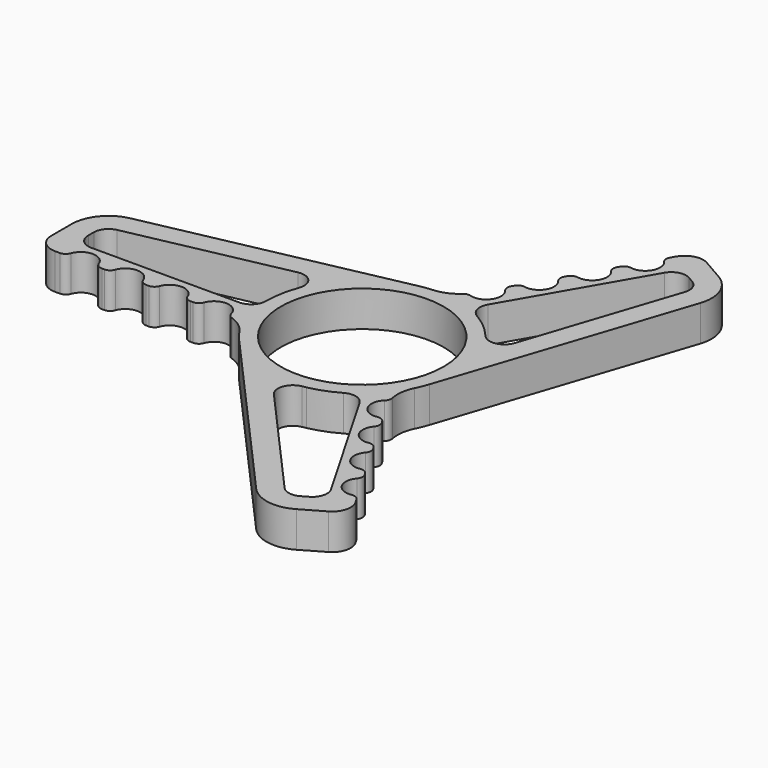
from build123d import *

# Parameters (mm, degrees)
F0_R     = 11
F1_DEPTH = 4.83


with BuildPart() as f1:
    # F0 (on Top) → F1 (new body)
    with BuildSketch(Plane.XY):
        with BuildLine():
            ThreePointArc((-36.01296, 5.824847), (-38.877164, 4.085682), (-40, 0.928531))
            Line((-40, 0.928531), (-40, -2.5))
            ThreePointArc((-40, -2.5), (-39.267767, -4.267767), (-37.5, -5))
            Line((-37.5, -5), (-36.828427, -5))
            ThreePointArc((-36.828427, -5), (-36.251077, -4.816497), (-35.885618, -4.333333))
            ThreePointArc((-35.885618, -4.333333), (-34, -3), (-32.114382, -4.333333))
            ThreePointArc((-32.114382, -4.333333), (-31.748923, -4.816497), (-31.171573, -5))
            Line((-31.171573, -5), (-30.828573, -5))
            ThreePointArc((-30.828573, -5), (-30.251193, -4.816476), (-29.88574, -4.333265))
            ThreePointArc((-29.88574, -4.333265), (-28.000073, -2.999794), (-26.114406, -4.333265))
            ThreePointArc((-26.114406, -4.333265), (-25.748953, -4.816476), (-25.171573, -5))
            Line((-25.171573, -5), (-24.828427, -5))
            ThreePointArc((-24.828427, -5), (-24.251077, -4.816497), (-23.885618, -4.333333))
            ThreePointArc((-23.885618, -4.333333), (-22, -3), (-20.114382, -4.333333))
            ThreePointArc((-20.114382, -4.333333), (-19.748923, -4.816497), (-19.171573, -5))
            Line((-19.171573, -5), (-18.828427, -5))
            ThreePointArc((-18.828427, -5), (-18.251077, -4.816497), (-17.885618, -4.333333))
            ThreePointArc((-17.885618, -4.333333), (-15.89445, -3.002787), (-14.054617, -4.535797))
            ThreePointArc((-14.054617, -4.535797), (-13.818534, -4.980014), (-13.396043, -5.253079))
            ThreePointArc((-13.396043, -5.253079), (-11.938126, -6.021537), (-10.809232, -7.222222))
            ThreePointArc((-10.809232, -7.222222), (-10.283299, -7.953223), (-9.70802, -8.64606))
            Line((-9.70802, -8.64606), (12.962014, -34.100562))
            ThreePointArc((12.962014, -34.100562), (15.900278, -35.711453), (19.195868, -35.105282))
            Line((19.195868, -35.105282), (22.165064, -33.391016))
            ThreePointArc((22.165064, -33.391016), (23.329878, -31.873), (23.080127, -29.975953))
            Line((23.080127, -29.975953), (22.744341, -29.394353))
            ThreePointArc((22.744341, -29.394353), (22.296747, -28.986105), (21.695586, -28.91119))
            ThreePointArc((21.695586, -28.91119), (19.598076, -27.944864), (19.809968, -25.645204))
            ThreePointArc((19.809968, -25.645204), (20.04567, -25.087126), (19.915913, -24.495374))
            Line((19.915913, -24.495374), (19.744413, -24.198327))
            ThreePointArc((19.744413, -24.198327), (19.296787, -23.790064), (18.695587, -23.715177))
            ThreePointArc((18.695587, -23.715177), (16.597934, -22.748877), (16.80992, -20.449107))
            ThreePointArc((16.80992, -20.449107), (17.045667, -19.89101), (16.915913, -19.299222))
            Line((16.915913, -19.299222), (16.744341, -19.002049))
            ThreePointArc((16.744341, -19.002049), (16.296747, -18.5938), (15.695586, -18.518885))
            ThreePointArc((15.695586, -18.518885), (13.598076, -17.552559), (13.809968, -15.252899))
            ThreePointArc((13.809968, -15.252899), (14.04567, -14.694821), (13.915913, -14.103069))
            Line((13.915913, -14.103069), (13.744341, -13.805896))
            ThreePointArc((13.744341, -13.805896), (13.296747, -13.397648), (12.695586, -13.322733))
            ThreePointArc((12.695586, -13.322733), (10.547715, -12.263604), (10.955424, -9.903757))
            ThreePointArc((10.955424, -9.903757), (11.222086, -9.477195), (11.247321, -8.974774))
            ThreePointArc((11.247321, -8.974774), (11.183867, -7.327952), (11.659244, -5.749959))
            ThreePointArc((11.659244, -5.749959), (12.029343, -4.928987), (12.341717, -4.084362))
            Line((12.341717, -4.084362), (23.050946, 28.275715))
            ThreePointArc((23.050946, 28.275715), (22.976886, 31.625771), (20.804132, 34.17675))
            Line((20.804132, 34.17675), (17.834936, 35.891016))
            ThreePointArc((17.834936, 35.891016), (15.937889, 36.140767), (14.419873, 34.975953))
            Line((14.419873, 34.975953), (14.084087, 34.394353))
            ThreePointArc((14.084087, 34.394353), (13.95433, 33.802602), (14.190032, 33.244524))
            ThreePointArc((14.190032, 33.244524), (14.401924, 30.944864), (12.304414, 29.978537))
            ThreePointArc((12.304414, 29.978537), (11.703253, 29.903622), (11.255659, 29.495374))
            Line((11.255659, 29.495374), (11.084159, 29.198327))
            ThreePointArc((11.084159, 29.198327), (10.954406, 28.606539), (11.190153, 28.048442))
            ThreePointArc((11.190153, 28.048442), (11.402139, 25.748671), (9.304486, 24.782371))
            ThreePointArc((9.304486, 24.782371), (8.703286, 24.707485), (8.255659, 24.299222))
            Line((8.255659, 24.299222), (8.084087, 24.002049))
            ThreePointArc((8.084087, 24.002049), (7.95433, 23.410297), (8.190032, 22.852219))
            ThreePointArc((8.190032, 22.852219), (8.401924, 20.552559), (6.304414, 19.586232))
            ThreePointArc((6.304414, 19.586232), (5.703253, 19.511317), (5.255659, 19.103069))
            Line((5.255659, 19.103069), (5.084087, 18.805896))
            ThreePointArc((5.084087, 18.805896), (4.95433, 18.214144), (5.190032, 17.656066))
            ThreePointArc((5.190032, 17.656066), (5.346735, 15.266391), (3.099193, 14.439554))
            ThreePointArc((3.099193, 14.439554), (2.596449, 14.457209), (2.148721, 14.227853))
            ThreePointArc((2.148721, 14.227853), (0.754259, 13.349489), (-0.850012, 12.972181))
            ThreePointArc((-0.850012, 12.972181), (-1.746044, 12.88221), (-2.633697, 12.730422))
            Line((-2.633697, 12.730422), (-36.01296, 5.824847))
        make_face()
        with BuildLine():
            ThreePointArc((6.5, -11.25833), (8.017638, -11.058529), (9.232051, -11.990381))
            Line((9.232051, -11.990381), (19.232051, -29.310889))
            ThreePointArc((19.232051, -29.310889), (19.431852, -30.828527), (18.5, -32.04294))
            Line((18.5, -32.04294), (17.695868, -32.507206))
            ThreePointArc((17.695868, -32.507206), (16.377632, -32.749674), (15.202327, -32.105318))
            Line((15.202327, -32.105318), (0.971231, -16.126274))
            ThreePointArc((0.971231, -16.126274), (0.578639, -14.130903), (2.136136, -12.823296))
            ThreePointArc((2.136136, -12.823296), (2.385369, -12.779281), (2.633697, -12.730422))
            ThreePointArc((2.633697, -12.730422), (4.625783, -12.149162), (6.5, -11.25833))
        make_face(mode=Mode.SUBTRACT)
        Circle(F0_R, mode=Mode.SUBTRACT)
        with BuildLine():
            ThreePointArc((-14.451378, 7.222027), (-12.527041, 6.564336), (-12.173368, 4.5617))
            ThreePointArc((-12.173368, 4.5617), (-12.791673, 2.317996), (-13, 0))
            ThreePointArc((-13, 0), (-13.585786, -1.414214), (-15, -2))
            Line((-15, -2), (-35, -2))
            ThreePointArc((-35, -2), (-36.414214, -1.414214), (-37, 0))
            Line((-37, 0), (-37, 0.928531))
            ThreePointArc((-37, 0.928531), (-36.550866, 2.191391), (-35.405184, 2.887058))
            Line((-35.405184, 2.887058), (-14.451378, 7.222027))
        make_face(mode=Mode.SUBTRACT)
        with BuildLine():
            ThreePointArc((6.5, 11.25833), (5.568148, 12.472743), (5.767949, 13.990381))
            Line((5.767949, 13.990381), (15.767949, 31.310889))
            ThreePointArc((15.767949, 31.310889), (16.982362, 32.242741), (18.5, 32.04294))
            Line((18.5, 32.04294), (19.304132, 31.578674))
            ThreePointArc((19.304132, 31.578674), (20.173234, 30.558282), (20.202857, 29.21826))
            Line((20.202857, 29.21826), (13.480148, 8.904247))
            ThreePointArc((13.480148, 8.904247), (11.948402, 7.566568), (10.037232, 8.261596))
            ThreePointArc((10.037232, 8.261596), (8.40328, 9.918915), (6.5, 11.25833))
        make_face(mode=Mode.SUBTRACT)
    extrude(amount=F1_DEPTH)


solid = f1.part
